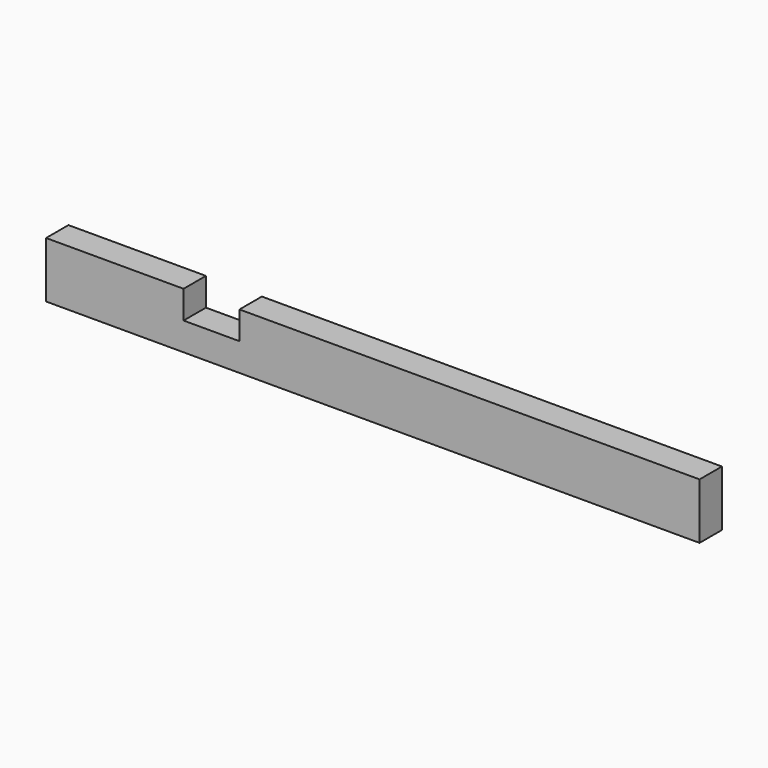
from build123d import *

# Parameters (mm, degrees)
F0_W     = 818
F0_H     = 70
F1_DEPTH = 35
F2_W     = 70
F2_H     = 35
F3_DEPTH = 35


with BuildPart() as f1:
    # F0 (on Front) → F1 (new body)
    with BuildSketch(Plane.XZ):
        with Locations((2.655625, -181.434033)):
            Rectangle(F0_W, F0_H)
    extrude(amount=-F1_DEPTH)

    # F2 (on face) → F3 (cut)
    with BuildSketch(Plane.XY.offset(-146.434033)):
        with Locations((-199.250098, 17.5)):
            Rectangle(F2_W, F2_H)
        with Locations((-199.250098, 17.5)):
            Rectangle(F2_W, F2_H)
    extrude(amount=-F3_DEPTH, mode=Mode.SUBTRACT)


solid = f1.part
